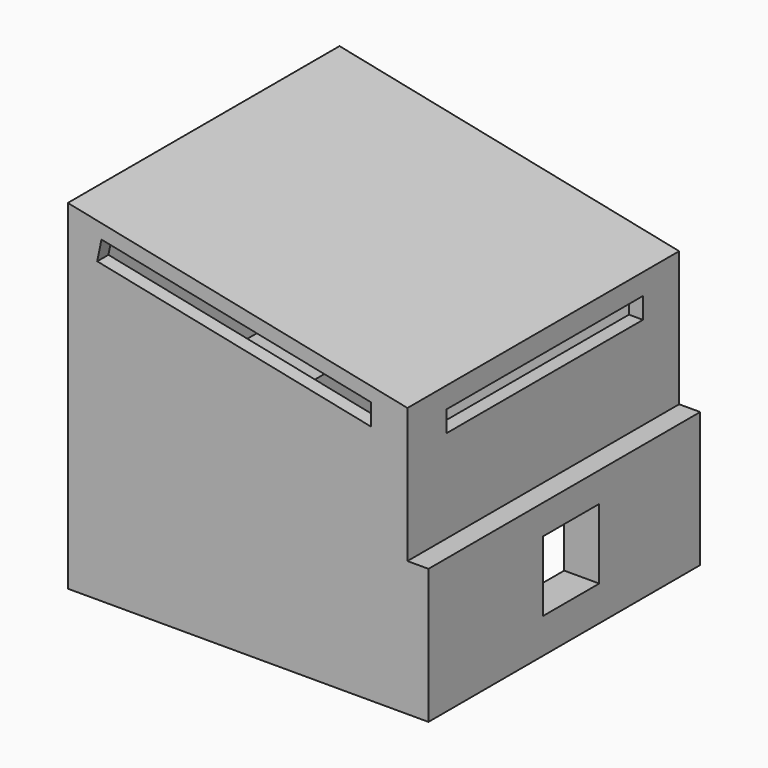
from build123d import *

# Parameters (mm, degrees)
F1_DEPTH  = 4845
F2_T      = -200
F4_DEPTH  = 4845.001
F5_W      = 3900
F5_H      = 300
F6_DEPTH  = 250
F7_W      = 4845
F7_H      = 1922.5
F8_DEPTH  = 300
F9_W      = 1000
F9_H      = 1000
F10_DEPTH = 500
F11_W     = 3500
F11_H     = 300
F12_DEPTH = 350
F13_W     = 1201.259792
F13_H     = 3383.830309
F14_DEPTH = 2500


with BuildPart() as f1:
    # F0 (on Front) → F1 (new body)
    with BuildSketch(Plane.XZ):
        Polygon((0, 4845), (0, 0), (4845, 0), (4845, 3845), align=None)
    extrude(amount=F1_DEPTH)

    # F2
    f2_openings = [f1.faces().sort_by_distance(p)[0] for p in [
        (2422.5, -2422.5, 0),
    ]]
    offset(amount=F2_T, openings=f2_openings)

    # F3 (on face) → F4 (cut, through all)
    with BuildSketch(Plane(origin=(0, 0, 0), x_dir=(-1, 0, 0), z_dir=(0, 1, 0))):
        Polygon((-480.034919, 4541.705986), (-4325.280602, 3748.053626), (-4325.280602, 3441.730226), (-419.393611, 4247.898852), align=None)
    extrude(amount=-F4_DEPTH, mode=Mode.SUBTRACT)

    # F5 (on face) → F6 (cut)
    with BuildSketch(Plane(origin=(0, 0, 0), x_dir=(0, -1, 0), z_dir=(-1, 0, 0))):
        with Locations((2430, 4495)):
            Rectangle(F5_W, F5_H)
    extrude(amount=-F6_DEPTH, mode=Mode.SUBTRACT)

    # F7 (on face) → F8 (join)
    with BuildSketch(Plane.YZ.offset(4845)):
        with Locations((-2422.5, 961.25)):
            Rectangle(F7_W, F7_H)
    extrude(amount=F8_DEPTH)

    # F9 (on face) → F10 (cut)
    with BuildSketch(Plane.YZ.offset(5145)):
        with Locations((-2300, 1000)):
            Rectangle(F9_W, F9_H)
    extrude(amount=-F10_DEPTH, mode=Mode.SUBTRACT)

    # F11 (on face) → F12 (cut)
    with BuildSketch(Plane.YZ.offset(4845)):
        with Locations((-2395, 3395)):
            Rectangle(F11_W, F11_H)
    extrude(amount=-F12_DEPTH, mode=Mode.SUBTRACT)


with BuildPart() as f14:
    # F13 (on Top) → F14 (new body)
    with BuildSketch(Plane.XY):
        with Locations((1395.830184, -2360.221743)):
            Rectangle(F13_W, F13_H)
    extrude(amount=F14_DEPTH)


solid = Compound([f1.part, f14.part])
